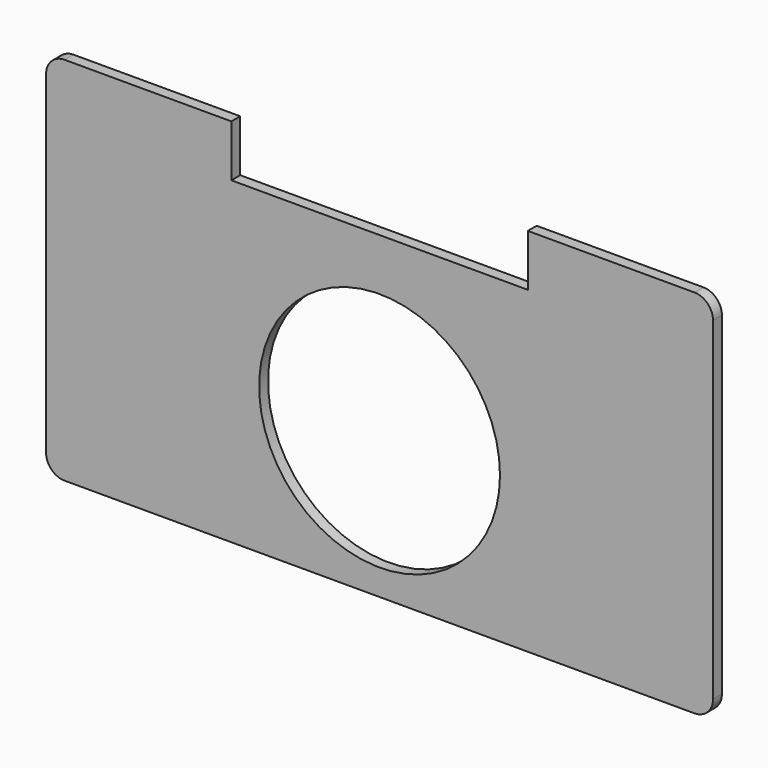
from build123d import *

# Parameters (mm, degrees)
F0_R     = 32.5
F1_DEPTH = 3
F0_W     = 80
F0_H     = 14
F2_DEPTH = 20


with BuildPart() as f1:
    # F0 (on Front) → F1 (new body)
    with BuildSketch(Plane.XZ):
        with BuildLine():
            Line((-40, 60.5), (-85, 60.5))
            ThreePointArc((-85, 60.5), (-88.5355339059, 59.0355339059), (-90, 55.5))
            Line((-90, 55.5), (-90, -34.5))
            ThreePointArc((-90, -34.5), (-88.5355339059, -38.0355339059), (-85, -39.5))
            Line((-85, -39.5), (85, -39.5))
            ThreePointArc((85, -39.5), (88.5355339059, -38.0355339059), (90, -34.5))
            Line((90, -34.5), (90, 55.5))
            ThreePointArc((90, 55.5), (88.5355339059, 59.0355339059), (85, 60.5))
            Line((85, 60.5), (40, 60.5))
            Line((40, 60.5), (40, 46.5))
            Line((40, 46.5), (-40, 46.5))
            Line((-40, 46.5), (-40, 60.5))
        make_face()
        Circle(F0_R, mode=Mode.SUBTRACT)
    extrude(amount=F1_DEPTH)

    # F0 (on Front) → F2 (cut)
    with BuildSketch(Plane.XZ):
        with BuildLine():
            Line((-40, 60.5), (-85, 60.5))
            ThreePointArc((-85, 60.5), (-88.5355339059, 59.0355339059), (-90, 55.5))
            Line((-90, 55.5), (-90, -34.5))
            ThreePointArc((-90, -34.5), (-88.5355339059, -38.0355339059), (-85, -39.5))
            Line((-85, -39.5), (85, -39.5))
            ThreePointArc((85, -39.5), (88.5355339059, -38.0355339059), (90, -34.5))
            Line((90, -34.5), (90, 55.5))
            ThreePointArc((90, 55.5), (88.5355339059, 59.0355339059), (85, 60.5))
            Line((85, 60.5), (40, 60.5))
            Line((40, 60.5), (40, 46.5))
            Line((40, 46.5), (-40, 46.5))
            Line((-40, 46.5), (-40, 60.5))
        make_face()
        Circle(F0_R, mode=Mode.SUBTRACT)
        with Locations((0, 53.5)):
            Rectangle(F0_W, F0_H)
    extrude(amount=-F2_DEPTH, mode=Mode.SUBTRACT)


solid = f1.part
